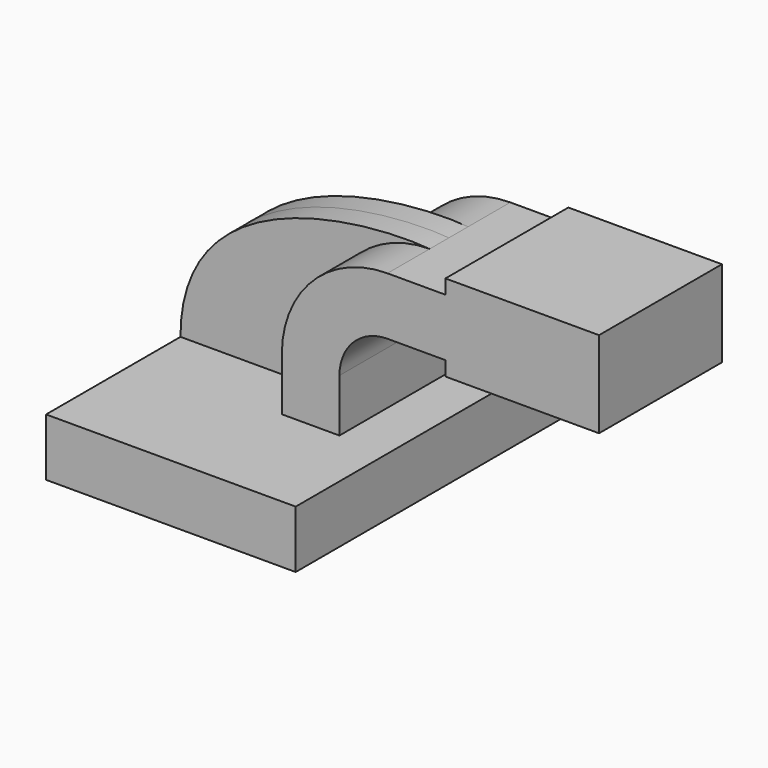
from build123d import *

# Parameters (mm, degrees)
F0_W     = 47.4850616275
F0_H     = 19.05
F0_W_2   = 16.0149383725
F0_W_3   = 19.05
F1_DEPTH = 63.5
F2_DEPTH = 25.4
F3_DEPTH = 7.9375


with BuildPart() as f1:
    # F0 (on Front) → F1 (new body, symmetric)
    with BuildSketch(Plane.XZ):
        with Locations((-17.5324691862, 0)):
            Rectangle(F0_W, F0_H)
        with Locations((33.2675308138, 0)):
            Rectangle(F0_W_2, F0_H)
        with Locations((15.7350616275, 0)):
            Rectangle(F0_W_3, F0_H)
    extrude(amount=F1_DEPTH, both=True)

    # F0 (on Front) → F2 (join, symmetric)
    with BuildSketch(Plane.XZ):
        with BuildLine():
            Line((6.2100616275, 9.525), (25.2600616275, 9.525))
            Line((25.2600616275, 9.525), (25.2600616275, 27.0002))
            ThreePointArc((25.2600616275, 27.0002), (29.9097414762, 38.2255201513), (41.1350616275, 42.8752))
            Line((41.1350616275, 42.8752), (60.325, 42.8752))
            Line((60.325, 42.8752), (60.325, 61.9252))
            Line((60.325, 61.9252), (41.1350616275, 61.9252))
            ThreePointArc((41.1350616275, 61.9252), (16.4393572946, 51.6959043329), (6.2100616275, 27.0002))
            Line((6.2100616275, 27.0002), (6.2100616275, 9.525))
        make_face()
        with Locations((15.7350616275, 0)):
            Rectangle(F0_W_3, F0_H)
        with Locations((33.2675308138, 0)):
            Rectangle(F0_W_2, F0_H)
        with BuildLine():
            Line((6.2100616275, 9.525), (25.2600616275, 9.525))
            Line((25.2600616275, 9.525), (25.2600616275, 27.0002))
            ThreePointArc((25.2600616275, 27.0002), (29.9097414762, 38.2255201513), (41.1350616275, 42.8752))
            Line((41.1350616275, 42.8752), (60.325, 42.8752))
            Line((60.325, 42.8752), (60.325, 61.9252))
            Line((60.325, 61.9252), (41.1350616275, 61.9252))
            ThreePointArc((41.1350616275, 61.9252), (16.4393572946, 51.6959043329), (6.2100616275, 27.0002))
            Line((6.2100616275, 27.0002), (6.2100616275, 9.525))
        make_face()
        Polygon((60.325, 61.9252), (60.325, 42.8752), (60.325, 38.1), (98.117655005, 38.1), (98.2993766665, 66.675), (60.325, 66.675), align=None)
        Polygon((98.2993766665, 66.675), (98.117655005, 38.1), (111.125, 38.1), (111.125, 66.675), align=None)
    extrude(amount=F2_DEPTH, both=True)

    # F0 (on Front) → F3 (join, symmetric)
    with BuildSketch(Plane.XZ):
        with BuildLine():
            Line((-41.275, 9.525), (6.2100616275, 9.525))
            Line((6.2100616275, 9.525), (6.2100616275, 27.0002))
            ThreePointArc((6.2100616275, 27.0002), (16.4393572946, 51.6959043329), (41.1350616275, 61.9252))
            add(Edge.make_bspline(
                [(-41.275, 9.525), (-41.299830026, 60.5354448615), (25.0295793076, 63.5215594349), (41.1350616275, 61.9252)],
                knots=[0, 0, 0, 0, 97.6585849656, 97.6585849656, 97.6585849656, 97.6585849656], degree=3))
        make_face()
    extrude(amount=F3_DEPTH, both=True)


solid = f1.part
